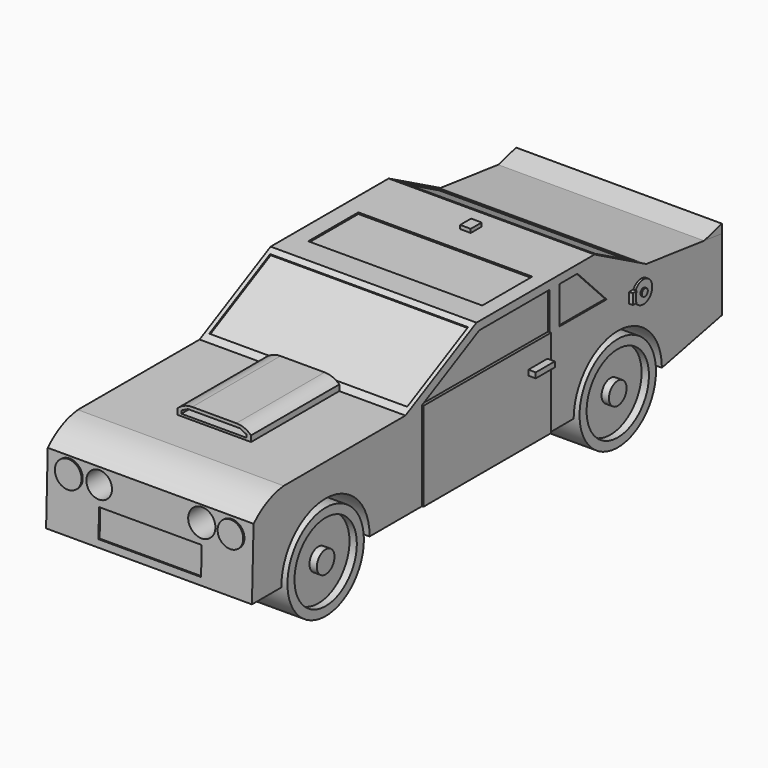
from build123d import *

# Parameters (mm, degrees)
F1_DEPTH  = 35.56
F3_DEPTH  = 35.561
F5_DEPTH  = 35.561
F7_DEPTH  = 35.56
F9_DEPTH  = 0.635
F10_W     = 30.0584170036
F10_H     = 10.8168683946
F11_DEPTH = 0.254
F13_DEPTH = 12.7
F15_DEPTH = 12.7
F16_W     = 34.1901219799
F16_H     = 14.7748664021
F17_DEPTH = 0.254
F19_DEPTH = 2.032
F21_DEPTH = 19.05
F23_DEPTH = 6.35
F24_R     = 1.905
F25_DEPTH = 0.381
F26_R     = 0.635
F27_DEPTH = 0.254
F28_R     = 8.255
F29_DEPTH = 11.43
F30_R     = 6.731
F31_DEPTH = 1.27
F32_R     = 1.905
F33_DEPTH = 1.27
F34_R     = 8.255
F35_DEPTH = 11.43
F36_R     = 6.731
F37_DEPTH = 1.27
F38_R     = 1.905
F39_DEPTH = 1.27
F41_DEPTH = 0.635
F42_R     = 8.255
F43_DEPTH = 11.43
F44_R     = 6.731
F45_DEPTH = 1.27
F46_R     = 1.905
F47_DEPTH = 1.27
F49_DEPTH = 11.43
F50_R     = 6.731
F51_DEPTH = 1.27
F52_R     = 1.905
F53_DEPTH = 1.27
F55_DEPTH = 0.254
F57_DEPTH = 0.254
F59_DEPTH = 0.254
F60_W     = 4.1126906872
F60_H     = 0.9139310569
F61_DEPTH = 1.27
F62_W     = 34.0208858252
F62_H     = 10.2185364813
F63_DEPTH = 0.254
F65_DEPTH = 0.254
F67_DEPTH = 0.254
F69_DEPTH = 0.254
F70_W     = 3.4729391336
F70_H     = 0.8225375786
F71_DEPTH = 1.27
F72_W     = 3.3890530467
F72_H     = 1.0238718241
F72_W_2   = 3.4542271751
F72_H_2   = 0.9586976375
F73_DEPTH = 12.7
F74_W     = 9.7761172801
F74_H     = 1.9552232698
F74_W_2   = 10.1019873982
F74_H_2   = 2.0855721086
F75_DEPTH = 0.254
F77_R     = 2.2145270419
F77_R_2   = 2.35132432
F78_DEPTH = 6.35
F79_R     = 2.3066409475
F79_R_2   = 2.2145270419
F80_DEPTH = 0.254
F81_W     = 17.7273582667
F81_H     = 4.8249950632
F82_DEPTH = 0.254


with BuildPart() as f1:
    # F0 (on Right) → F1 (new body)
    with BuildSketch(Plane.YZ):
        Polygon((-68.3381408453, 15.244551003), (-101.0388359427, 15.244551003), (-101.4899164438, 0), (-95.4003557563, 0), (-76.2295350432, 0), (-31.6855609417, 0), (-12.9658151418, 0), (0, 2.7271306608), (0, 15.131781809), (-16.3489002734, 17.1616338193), (-27.5130886585, 23.1384206563), (-52.9990047216, 23.1384206563), (-62.6971870661, 15.244551003), align=None)
        Polygon((-52.9990047216, 23.1384206563), (-68.3381408453, 15.244551003), (-62.6971870661, 15.244551003), align=None)
    extrude(amount=F1_DEPTH)

    # F2 (on face) → F3 (cut, through all)
    with BuildSketch(Plane.YZ.offset(35.56)):
        with BuildLine():
            ThreePointArc((-101.1315838821, 12.1100756978), (-98.1581770917, 14.2496116989), (-94.6327185369, 15.244551003))
            Line((-94.6327185369, 15.244551003), (-101.0388359427, 15.244551003))
            Line((-101.0388359427, 15.244551003), (-101.1315838821, 12.1100756978))
        make_face()
    extrude(amount=-F3_DEPTH, mode=Mode.SUBTRACT)

    # F4 (on face) → F5 (cut, through all)
    with BuildSketch(Plane.YZ.offset(35.56)):
        with BuildLine():
            Line((-95.1399164438, 0), (-76.0899164438, 0))
            ThreePointArc((-76.0899164438, 0), (-85.6149164438, 9.6439903584), (-95.1399164438, 0))
        make_face()
        with BuildLine():
            ThreePointArc((-12.9658151418, 0), (-22.4908151418, 9.4885063076), (-32.0158151418, 0))
            Line((-32.0158151418, 0), (-12.9658151418, 0))
        make_face()
    extrude(amount=-F5_DEPTH, mode=Mode.SUBTRACT)

    # F8 (on face) → F9 (join)
    with BuildSketch(Plane.XY.offset(23.1384206563)):
        Polygon((16.7616549879, -33.0318547785), (17.78, -33.0318547785), (18.5939129442, -33.0318547785), (18.5939129442, -30.6606963277), (16.7616549879, -30.6606963277), align=None)
    extrude(amount=F9_DEPTH)

    # F10 (on face) → F11 (cut)
    with BuildSketch(Plane.XY.offset(23.1384206563)):
        with Locations((18.0138333235, -43.2024803013)):
            Rectangle(F10_W, F10_H)
    extrude(amount=-F11_DEPTH, mode=Mode.SUBTRACT)

    # F16 (on face) → F17 (cut)
    with BuildSketch(Plane(origin=(0, -20.5114539171, 39.8572560158), x_dir=(1, 0, 0), z_dir=(0, -0.4575850504, 0.8891658572))):
        with Locations((17.7955460094, -45.0342185795)):
            Rectangle(F16_W, F16_H)
    extrude(amount=-F17_DEPTH, mode=Mode.SUBTRACT)

    # F18 (on face) → F19 (join)
    with BuildSketch(Plane.XY.offset(15.244551003)):
        Polygon((24.13, -68.3381408453), (17.78, -68.3381408453), (11.43, -68.3381408453), (11.43, -87.3881408453), (24.13, -87.3881408453), align=None)
    extrude(amount=F19_DEPTH)

    # F20 (on face) → F21 (cut)
    with BuildSketch(Plane.XZ.offset(87.3881408453)):
        with BuildLine():
            ThreePointArc((11.43, 16.260551003), (12.602168139, 17.0131306555), (13.97, 17.276551003))
            Line((13.97, 17.276551003), (11.43, 17.276551003))
            Line((11.43, 17.276551003), (11.43, 16.260551003))
        make_face()
        with BuildLine():
            Line((24.13, 17.276551003), (21.59, 17.276551003))
            ThreePointArc((21.59, 17.276551003), (22.957831861, 17.0131306555), (24.13, 16.260551003))
            Line((24.13, 16.260551003), (24.13, 17.276551003))
        make_face()
    extrude(amount=-F21_DEPTH, mode=Mode.SUBTRACT)

    # F22 (on face) → F23 (cut)
    with BuildSketch(Plane.XZ.offset(87.3881408453)):
        Polygon((12.0958033949, 16.1438610839), (12.0958033949, 15.6358610839), (23.3423581936, 15.6358610839), (23.3423581936, 16.1438610839), (22.2064182162, 16.7117874593), (13.2317433723, 16.7117874593), align=None)
    extrude(amount=-F23_DEPTH, mode=Mode.SUBTRACT)

    # F24 (on face) → F25 (join)
    with BuildSketch(Plane.YZ.offset(35.56)):
        with Locations((-17.4321550876, 13.4860901162)):
            Circle(F24_R)
    extrude(amount=F25_DEPTH)

    # F26 (on face) → F27 (join)
    with BuildSketch(Plane.YZ.offset(35.941)):
        with Locations((-17.4321550876, 13.4860901162)):
            Circle(F26_R)
    extrude(amount=F27_DEPTH)

    # F40 (on face) → F41 (join)
    with BuildSketch(Plane.YZ.offset(35.56)):
        with BuildLine():
            ThreePointArc((-19.2221011966, 12.6137584448), (-19.3955940618, 13.5271127573), (-19.1892124712, 14.4336018711))
            Line((-19.1892124712, 14.4336018711), (-20.0443193316, 14.4226383418))
            Line((-20.0443193316, 14.4226383418), (-20.0443193316, 12.6137584448))
            Line((-20.0443193316, 12.6137584448), (-19.2221011966, 12.6137584448))
        make_face()
    extrude(amount=F41_DEPTH)

    # F54 (on face) → F55 (cut)
    with BuildSketch(Plane.YZ.offset(35.56)):
        Polygon((-52.40623624, 21.7253560872), (-64.7695586085, 15.3629081324), (-64.7695586085, 15.3596565788), (-34.5800593495, 15.2725145045), (-34.5800593495, 21.7253560872), align=None)
        Polygon((-31.2006399035, 21.7253560872), (-34.5800593495, 21.7253560872), (-34.5800593495, 15.2725145045), (-24.8923841864, 15.244551003), align=None)
    extrude(amount=-F55_DEPTH, mode=Mode.SUBTRACT)

    # F56 (on face) → F57 (join)
    with BuildSketch(Plane.YZ.offset(35.306)):
        Polygon((-35.0221246481, 15.2737905272), (-35.0221246481, 21.7253560872), (-37.2381757198, 21.7253560872), (-37.2381757198, 15.2801871649), align=None)
    extrude(amount=F57_DEPTH)

    # F58 (on face) → F59 (join)
    with BuildSketch(Plane.YZ.offset(35.56)):
        Polygon((-37.2381757198, 0), (-37.2381757198, 15.2801871649), (-64.7695586085, 15.3596565788), (-64.7695586085, 0), align=None)
    extrude(amount=F59_DEPTH)

    # F60 (on face) → F61 (join)
    with BuildSketch(Plane.YZ.offset(35.814)):
        with Locations((-40.051959455, 11.1864535138)):
            Rectangle(F60_W, F60_H)
    extrude(amount=F61_DEPTH)

    # F62 (on face) → F63 (cut)
    with BuildSketch(Plane(origin=(0, 3.4990511465, 6.5359644293), x_dir=(1, 0, 0), z_dir=(0, 0.4719742189, 0.8816123506))):
        with Locations((17.7273228765, -28.7594953552)):
            Rectangle(F62_W, F62_H)
    extrude(amount=-F63_DEPTH, mode=Mode.SUBTRACT)

    # F64 (on face) → F65 (cut)
    with BuildSketch(Plane(origin=(0, 0, 0), x_dir=(0, -1, 0), z_dir=(-1, 0, 0))):
        Polygon((25.7489327341, 15.3905386105), (64.4082352519, 15.2077516541), (52.6185184717, 21.8794513494), (31.8722724915, 21.8794513494), align=None)
    extrude(amount=-F65_DEPTH, mode=Mode.SUBTRACT)

    # F66 (on face) → F67 (join)
    with BuildSketch(Plane(origin=(0.254, 0, 0), x_dir=(0, -1, 0), z_dir=(-1, 0, 0))):
        Polygon((38.7269002063, 21.8794513494), (36.990288645, 21.8794513494), (36.990288645, 15.3373878008), (38.7269002063, 15.3291768419), align=None)
    extrude(amount=F67_DEPTH)

    # F68 (on face) → F69 (join)
    with BuildSketch(Plane(origin=(0, 0, 0), x_dir=(0, -1, 0), z_dir=(-1, 0, 0))):
        Polygon((64.4082352519, 15.2077516541), (38.7269002063, 15.3291768419), (38.7269002063, 0), (64.6824166179, 0), align=None)
    extrude(amount=F69_DEPTH)

    # F70 (on face) → F71 (join)
    with BuildSketch(Plane(origin=(-0.254, 0, 0), x_dir=(0, -1, 0), z_dir=(-1, 0, 0))):
        with Locations((41.1943756044, 11.1407567747)):
            Rectangle(F70_W, F70_H)
    extrude(amount=F71_DEPTH)

    # F72 (on face) → F73 (cut)
    with BuildSketch(Plane(origin=(0, 0, 0), x_dir=(-1, 0, 0), z_dir=(0, 1, 0))):
        with Locations((-33.3891995251, 3.2390665729)):
            Rectangle(F72_W, F72_H)
        with Locations((-2.3337345629, 3.2064794796)):
            Rectangle(F72_W_2, F72_H_2)
    extrude(amount=-F73_DEPTH, mode=Mode.SUBTRACT)

    # F74 (on face) → F75 (join)
    with BuildSketch(Plane(origin=(0, 0, 0), x_dir=(-1, 0, 0), z_dir=(0, 1, 0))):
        with Locations((-29.8046236858, 13.2012483664)):
            Rectangle(F74_W, F74_H)
        with Locations((-5.787962873, 13.2664227858)):
            Rectangle(F74_W_2, F74_H_2)
    extrude(amount=F75_DEPTH)

    # F77 (on face) → F78 (cut)
    with BuildSketch(Plane(origin=(0, -101.4011351132, 3.000421254), x_dir=(1, 0, 0), z_dir=(0, -0.9995625144, 0.0295766769))):
        with Locations((8.9489072561, 6.4235390164)):
            Circle(F77_R)
        with Locations((26.6762655228, 6.4235390164)):
            Circle(F77_R_2)
    extrude(amount=-F78_DEPTH, mode=Mode.SUBTRACT)

    # F79 (on face) → F80 (join)
    with BuildSketch(Plane(origin=(0, -101.4011351132, 3.000421254), x_dir=(1, 0, 0), z_dir=(0, -0.9995625144, 0.0295766769))):
        with Locations((3.8001518697, 6.4235390164)):
            Circle(F79_R)
        with Locations((31.8250209093, 6.4235390164)):
            Circle(F79_R_2)
    extrude(amount=F80_DEPTH)

    # F81 (on face) → F82 (cut)
    with BuildSketch(Plane(origin=(0, -101.4011351132, 3.000421254), x_dir=(1, 0, 0), z_dir=(0, -0.9995625144, 0.0295766769))):
        with Locations((17.8777603433, 0.6857067347)):
            Rectangle(F81_W, F81_H)
    extrude(amount=-F82_DEPTH, mode=Mode.SUBTRACT)


with BuildPart() as f7:
    # F6 (on face) → F7 (new body)
    with BuildSketch(Plane.YZ.offset(35.56)):
        Polygon((-3.8411644735, 15.6086943412), (0, 15.131781809), (0, 16.655781809), align=None)
    extrude(amount=-F7_DEPTH)


with BuildPart() as f13:
    # F12 (on face) → F13 (new body)
    with BuildSketch(Plane(origin=(0, 0, 0), x_dir=(1, 0, 0), z_dir=(0, 0, -1))):
        Polygon((11.43, 76.0899164438), (17.78, 76.0899164438), (24.13, 76.0899164438), (24.13, 95.0435325503), (11.43, 95.0435325503), align=None)
    extrude(amount=-F13_DEPTH)

    # F28 (on face) → F29 (join)
    with BuildSketch(Plane.YZ.offset(24.13)):
        with Locations((-85.5667244971, 0)):
            Circle(F28_R)
    extrude(amount=F29_DEPTH)

    # F30 (on face) → F31 (cut)
    with BuildSketch(Plane.YZ.offset(35.56)):
        with Locations((-85.5667244971, 0)):
            Circle(F30_R)
    extrude(amount=-F31_DEPTH, mode=Mode.SUBTRACT)

    # F32 (on face) → F33 (join)
    with BuildSketch(Plane.YZ.offset(34.29)):
        with Locations((-85.5667244971, 0)):
            Circle(F32_R)
    extrude(amount=F33_DEPTH)

    # F48 (on face) → F49 (join)
    with BuildSketch(Plane(origin=(11.43, 0, 0), x_dir=(0, -1, 0), z_dir=(-1, 0, 0))):
        with BuildLine():
            ThreePointArc((77.3117244971, 0), (85.5667244971, -8.255), (93.8217244971, 0))
            Line((93.8217244971, 0), (77.3117244971, 0))
        make_face()
        with BuildLine():
            Line((77.3117244971, 0), (93.8217244971, 0))
            ThreePointArc((93.8217244971, 0), (85.5667244971, 8.255), (77.3117244971, 0))
        make_face()
    extrude(amount=F49_DEPTH)

    # F50 (on face) → F51 (cut)
    with BuildSketch(Plane(origin=(0, 0, 0), x_dir=(0, -1, 0), z_dir=(-1, 0, 0))):
        with Locations((85.5667244971, 0)):
            Circle(F50_R)
    extrude(amount=-F51_DEPTH, mode=Mode.SUBTRACT)

    # F52 (on face) → F53 (join)
    with BuildSketch(Plane(origin=(1.27, 0, 0), x_dir=(0, -1, 0), z_dir=(-1, 0, 0))):
        with Locations((85.5667244971, 0)):
            Circle(F52_R)
    extrude(amount=F53_DEPTH)


with BuildPart() as f15:
    # F14 (on face) → F15 (new body)
    with BuildSketch(Plane(origin=(0, 0, 0), x_dir=(1, 0, 0), z_dir=(0, 0, -1))):
        Polygon((24.13, 32.0158151418), (17.78, 32.0158151418), (11.43, 32.0158151418), (11.43, 12.9658151418), (24.13, 12.9658151418), align=None)
    extrude(amount=-F15_DEPTH)

    # F34 (on face) → F35 (join)
    with BuildSketch(Plane.YZ.offset(24.13)):
        with Locations((-22.4908151418, 0)):
            Circle(F34_R)
    extrude(amount=F35_DEPTH)

    # F36 (on face) → F37 (cut)
    with BuildSketch(Plane.YZ.offset(35.56)):
        with Locations((-22.4908151418, 0)):
            Circle(F36_R)
    extrude(amount=-F37_DEPTH, mode=Mode.SUBTRACT)

    # F38 (on face) → F39 (join)
    with BuildSketch(Plane.YZ.offset(34.29)):
        with Locations((-22.4908151418, 0)):
            Circle(F38_R)
    extrude(amount=F39_DEPTH)

    # F42 (on face) → F43 (join)
    with BuildSketch(Plane(origin=(11.43, 0, 0), x_dir=(0, -1, 0), z_dir=(-1, 0, 0))):
        with Locations((22.4908151418, 0)):
            Circle(F42_R)
    extrude(amount=F43_DEPTH)

    # F44 (on face) → F45 (cut)
    with BuildSketch(Plane(origin=(0, 0, 0), x_dir=(0, -1, 0), z_dir=(-1, 0, 0))):
        with Locations((22.4908151418, 0)):
            Circle(F44_R)
    extrude(amount=-F45_DEPTH, mode=Mode.SUBTRACT)

    # F46 (on face) → F47 (join)
    with BuildSketch(Plane(origin=(1.27, 0, 0), x_dir=(0, -1, 0), z_dir=(-1, 0, 0))):
        with Locations((22.4908151418, 0)):
            Circle(F46_R)
    extrude(amount=F47_DEPTH)


solid = Compound([f1.part, f7.part, f13.part, f15.part])
